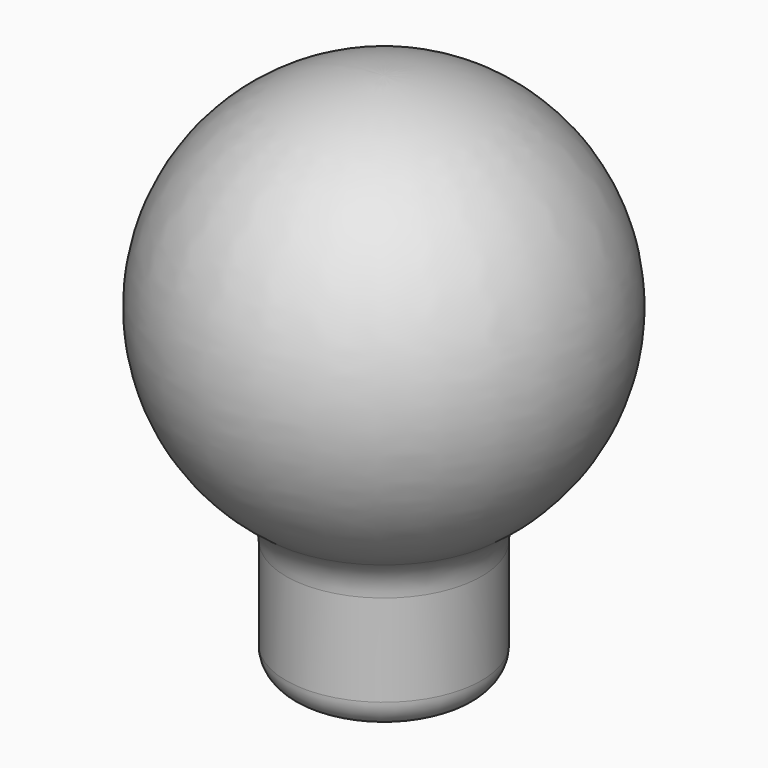
from build123d import *

# Parameters (mm, degrees)
F3_D           = 10.8
F3_DEPTH       = 50
F3_CBORE_D     = 10.8
F3_CBORE_DEPTH = 10.8
F3_TIP         = 3.2446473427


with BuildPart() as f1:
    # F0 (on Front) → F1 (revolve)
    with BuildSketch(Plane.XZ):
        with BuildLine():
            Line((0, -40), (0, 25))
            add(Edge.make_bspline(
                [(0, 25), (-78.1095262892, 25), (-14.5161290323, -20.3539184905)],
                knots=[4.7123889804, 4.7123889804, 4.7123889804, 7.2344607382, 7.2344607382, 7.2344607382], degree=2, weights=[1, 0.3048304942, 1]))
            ThreePointArc((-14.5161290323, -20.3539184905), (-12.665994666, -22.4914261089), (-12, -25.2388589282))
            Line((-12, -25.2388589282), (-12, -36.5))
            ThreePointArc((-12, -36.5), (-10.9748737342, -38.9748737342), (-8.5, -40))
            Line((-8.5, -40), (0, -40))
        make_face()
    revolve(axis=Axis((0, 0, -7.5), (0, 0, -1)))

    # F3
    with Locations(Plane(origin=(0, 0, -40), x_dir=(1, 0, 0), z_dir=(0, 0, -1))):
        with Locations((0, 0)):
            CounterBoreHole(F3_D / 2, F3_CBORE_D / 2, F3_CBORE_DEPTH, depth=F3_DEPTH)
            with Locations((0, 0, -(F3_DEPTH + F3_TIP / 2))):  # 118° drill point
                Cone(0, F3_D / 2, F3_TIP, mode=Mode.SUBTRACT)


solid = f1.part
